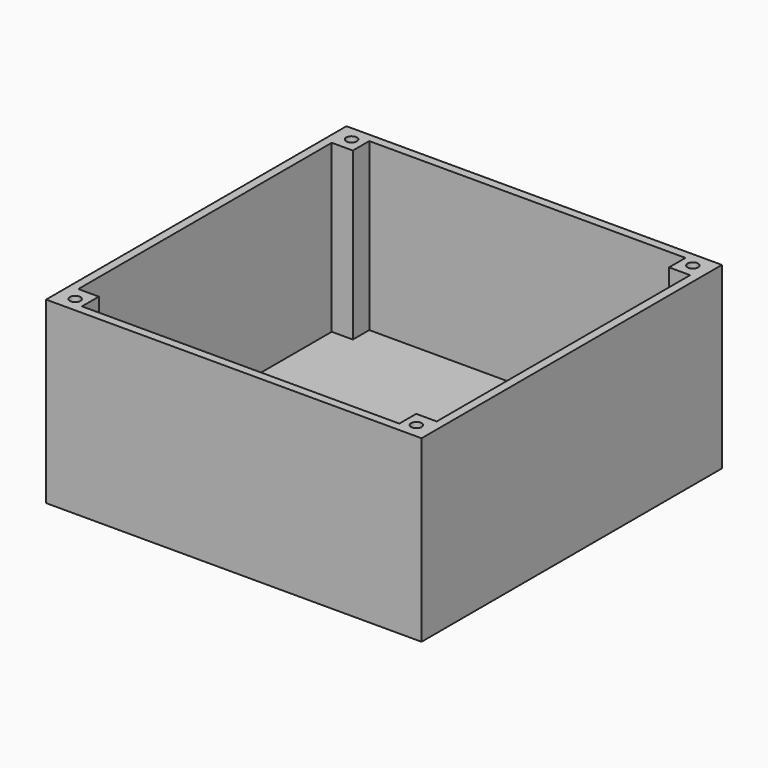
from build123d import *

# Parameters (mm, degrees)
SKETCH_W        = 88
SKETCH_H        = 88
PAD_DEPTH       = 42
SKETCH001_W     = 84
SKETCH001_H     = 84
POCKET_DEPTH    = 39
SKETCH002_W     = 5
SKETCH002_H     = 5
PAD001_DEPTH    = 39
SKETCH003_R     = 1.25
POCKET001_DEPTH = 10


with BuildPart() as part:
    # Sketch → Pad (new body)
    with BuildSketch(Plane.XY):
        Rectangle(SKETCH_W, SKETCH_H)
    extrude(amount=PAD_DEPTH)

    # Sketch001 (on Face6 of Pad) → Pocket (cut)
    with BuildSketch(Plane.XY.offset(42)):
        Rectangle(SKETCH001_W, SKETCH001_H)
    extrude(amount=-POCKET_DEPTH, mode=Mode.SUBTRACT)

    # Sketch002 (on Face11 of Pocket) → Pad001 (join)
    with BuildSketch(Plane.XY.offset(3)):
        with Locations((-39.556091, 39.69)):
            Rectangle(SKETCH002_W, SKETCH002_H)
        with Locations((-39.69, -39.556091)):
            Rectangle(SKETCH002_W, SKETCH002_H)
    pad001 = extrude(amount=PAD001_DEPTH)

    # Mirrored: Pad001 across Sketch002 V_Axis
    add(pad001.mirror(Plane(origin=(0, 0, 3), x_dir=(0, 0, 1), z_dir=(1, 0, 0))))

    # Sketch003 (on Face6 of Mirrored) → Pocket001 (cut)
    with BuildSketch(Plane.XY.offset(42)):
        with Locations((-40, 40.5)):
            Circle(SKETCH003_R)
        with Locations((-40, -40.5)):
            Circle(SKETCH003_R)
    pocket001 = extrude(amount=-POCKET001_DEPTH, mode=Mode.SUBTRACT)

    # Mirrored001: Pocket001 across Sketch003 V_Axis
    add(pocket001.mirror(Plane(origin=(0, 0, 42), x_dir=(0, 0, 1), z_dir=(1, 0, 0))), mode=Mode.SUBTRACT)


solid = part.part
